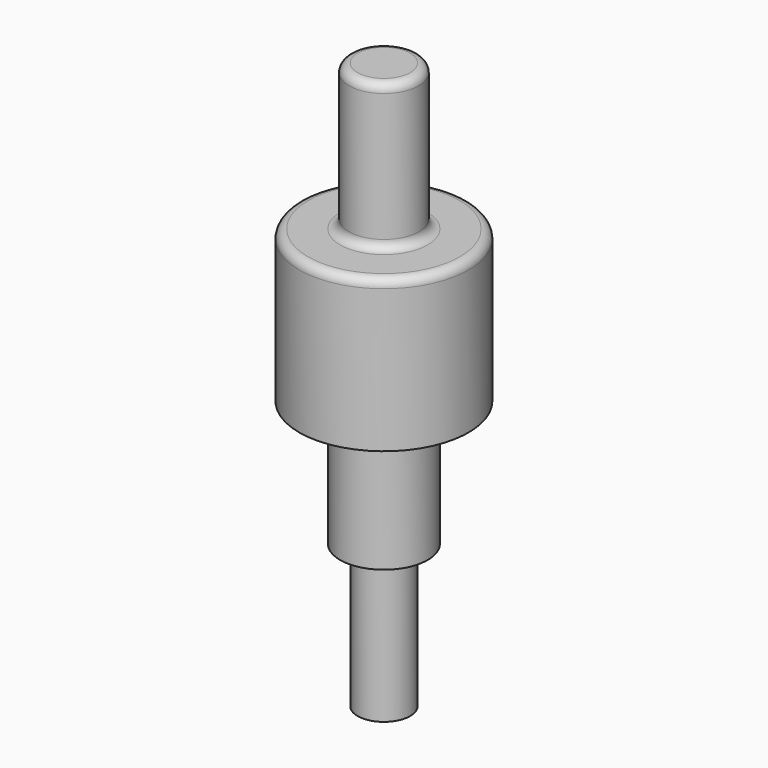
from build123d import *


with BuildPart() as f1:
    # F0 (on Front) → F1 (revolve)
    with BuildSketch(Plane.XZ):
        with BuildLine():
            Line((-4.5, 0), (0, 0))
            Line((0, 0), (0, 97))
            Line((0, 97), (-4.5, 97))
            ThreePointArc((-4.5, 97), (-5.56066, 96.56066), (-6, 95.5))
            Line((-6, 95.5), (-6, 73.5))
            ThreePointArc((-6, 73.5), (-6.43934, 72.43934), (-7.5, 72))
            Line((-7.5, 72), (-13, 72))
            ThreePointArc((-13, 72), (-14.06066, 71.56066), (-14.5, 70.5))
            Line((-14.5, 70.5), (-14.5, 46))
            Line((-14.5, 46), (-9, 46))
            ThreePointArc((-9, 46), (-7.93934, 45.56066), (-7.5, 44.5))
            Line((-7.5, 44.5), (-7.5, 24.5))
            Line((-7.5, 24.5), (-6, 24.5))
            ThreePointArc((-6, 24.5), (-4.93934, 24.06066), (-4.5, 23))
            Line((-4.5, 23), (-4.5, 0))
        make_face()
    revolve(axis=Axis((0, 0, 50.829172), (0, 0, 1)))


solid = f1.part
